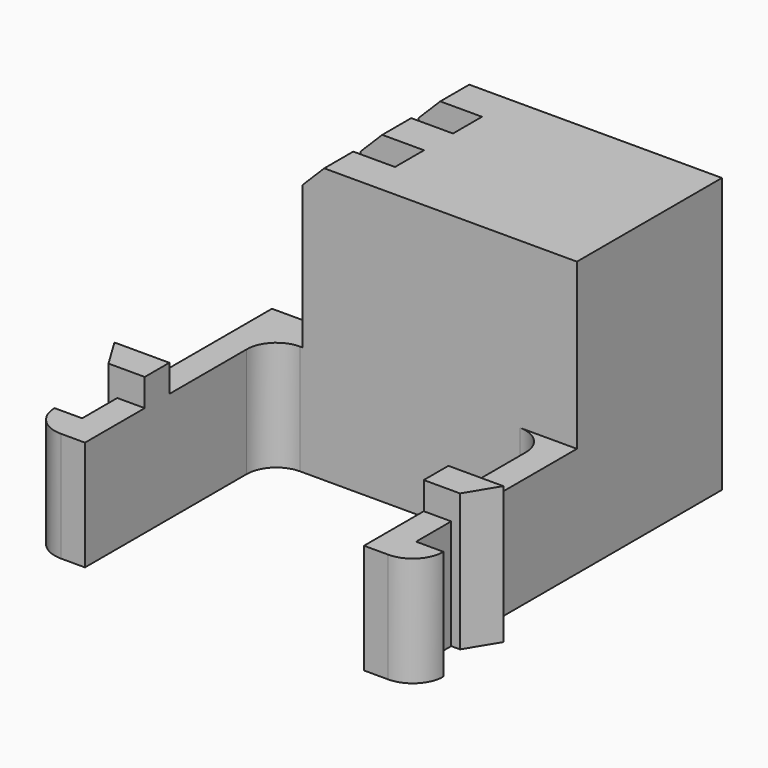
from build123d import *

# Parameters (mm, degrees)
PAD017_DEPTH           = 5
PAD020_DEPTH           = 6.25
SKETCH038_W            = 10
SKETCH038_H            = 1.65
PAD021_DEPTH           = 5
SKETCH097_W            = 12.5
SKETCH097_H            = 1.65
PAD066_DEPTH           = 12.5
SKETCH094_W            = 12.5
SKETCH094_H            = 1.65
PAD067_DEPTH           = 9.6
SKETCH095_W            = 9.6
SKETCH095_H            = 1.65
PAD068_DEPTH           = 12.5
SKETCH096_W            = 12.5
SKETCH096_H            = 1.65
PAD069_DEPTH           = 12.5
LINEARPATTERN022_COUNT = 2
LINEARPATTERN022_PITCH = 3.3
CHAMFER012_SIZE        = 1


with BuildPart() as obj1:
    # Sketch034 → Pad017 (new body)
    with BuildSketch(Plane.XY):
        with BuildLine():
            Line((-1.35, -1.8), (-1.35, 6))
            ThreePointArc((0, 7.35), (-0.954594, 6.954594), (-1.35, 6))
            Line((0, 9), (0, 7.35))
            Line((-2.6, 9), (0, 9))
            Line((-2.6, -1.8), (-2.6, 9))
            Line((-3.85, -1.8), (-2.6, -1.8))
            ThreePointArc((-3.85, -1.8), (-3.439949, -2.789949), (-2.45, -3.2))
            Line((-1.35, -3.2), (-2.45, -3.2))
            Line((-1.35, -1.8), (-1.35, -3.2))
        make_face()
    extrude(amount=PAD017_DEPTH)

    # Sketch037 → Pad020 (join)
    with BuildSketch(Plane.XY):
        Polygon((-1.35, 0.2), (-1.35, 1.6), (-2.6, 1.6), (-3.85, 1.6), (-3, 0.2), (-2.6, 0.2), align=None)
    extrude(amount=PAD020_DEPTH)


with BuildPart() as body035:
    # Mirror002: instance of _obj1
    add(obj1.part.mirror(Plane(origin=(5, 0, 0), x_dir=(0, 1, 0), z_dir=(-1, 0, 0))))

    # Fusion002: union _obj1
    add(obj1.part)


with BuildPart() as body035_1:
    # Clone003 placement: moved
    add(body035.part.moved(Location((-5, 0, 0))))

    # Sketch038 → Pad021 (new body)
    with BuildSketch(Plane.XY):
        with Locations((0, 8.175)):
            Rectangle(SKETCH038_W, SKETCH038_H)
    extrude(amount=PAD021_DEPTH)

    # Sketch097 → Pad066 (new body)
    with BuildSketch(Plane.XY):
        with Locations((1.35, 8.175)):
            Rectangle(SKETCH097_W, SKETCH097_H)
    extrude(amount=PAD066_DEPTH)

    # Sketch094 → Pad067 (join)
    with BuildSketch(Plane.XY):
        with Locations((1.35, 9.825)):
            Rectangle(SKETCH094_W, SKETCH094_H)
    pad067 = extrude(amount=PAD067_DEPTH)

    # Sketch095 → Pad068 (join)
    with BuildSketch(Plane.XY):
        with Locations((2.8, 9.825)):
            Rectangle(SKETCH095_W, SKETCH095_H)
    pad068 = extrude(amount=PAD068_DEPTH)

    # Sketch096 → Pad069 (join)
    with BuildSketch(Plane.XY):
        with Locations((1.35, 11.475)):
            Rectangle(SKETCH096_W, SKETCH096_H)
    pad069 = extrude(amount=PAD069_DEPTH)

    # LinearPattern022: Pad069, Pad068, Pad067 ×2
    with Locations(*[(0, i * LINEARPATTERN022_PITCH, 0) for i in range(1, LINEARPATTERN022_COUNT)]):
        add(pad069)
        add(pad068)
        add(pad067)

    # Chamfer012
    chamfer012_edges = [body035_1.edges().sort_by_distance(p)[0] for p in [
        (-4.9, 8.175, 12.5),
        (-4.9, 11.475, 12.5),
        (-4.9, 14.775, 12.5),
    ]]
    chamfer(chamfer012_edges, length=CHAMFER012_SIZE)


with BuildPart() as body035_2:
    # Body035 placement: moved
    add(body035_1.part.moved(Location((-5, 0, 0))))


solid = body035_2.part
